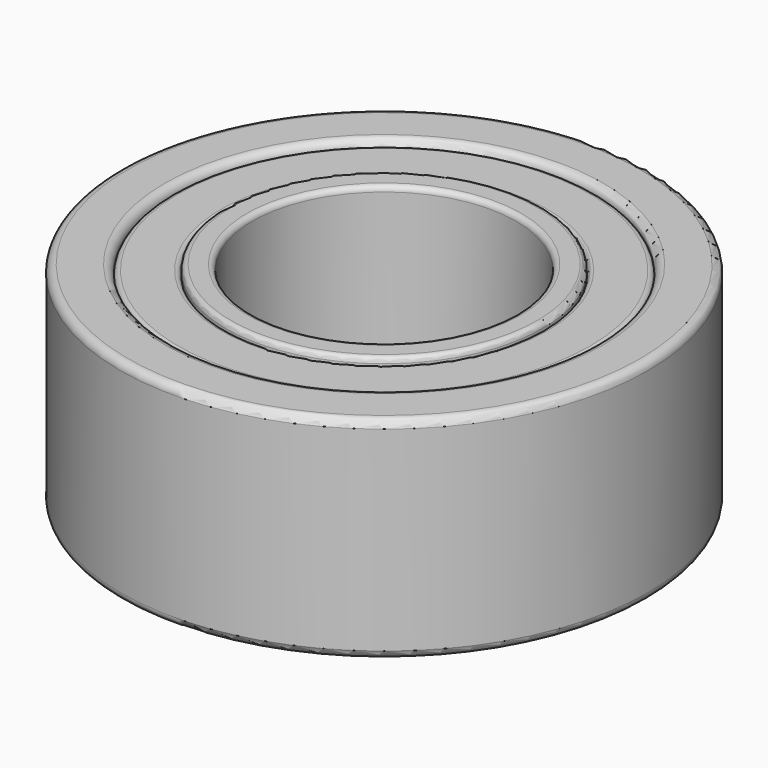
from build123d import *

# Parameters (mm, degrees)
SKETCH_R      = 10
SKETCH_R_2    = 5
PAD_DEPTH     = 4
SKETCH001_W   = 2
SKETCH001_H   = 2
FILLET_R      = 0.3
FILLET001_R   = 0.2
SKETCH002_R   = 8
SKETCH002_R_2 = 6
PAD001_DEPTH  = 0.8
FILLET002_R   = 0.2
SKETCH003_R   = 8
SKETCH003_R_2 = 6
PAD002_DEPTH  = 1
FILLET003_R   = 0.2


with BuildPart() as body:
    # Sketch → Pad (new body, symmetric)
    with BuildSketch(Plane.XY):
        Circle(SKETCH_R)
        Circle(SKETCH_R_2, mode=Mode.SUBTRACT)
    extrude(amount=PAD_DEPTH, both=True)

    # Sketch001 → Groove (revolve, cut)
    with BuildSketch(Plane.YZ):
        with Locations((7, 4)):
            Rectangle(SKETCH001_W, SKETCH001_H)
    groove = revolve(axis=Axis((0, 0, 0), (0, 0, 1)), mode=Mode.SUBTRACT)

    # Mirrored: Groove across XY
    add(groove.mirror(Plane.XY), mode=Mode.SUBTRACT)

    # Fillet
    fillet_edges = [body.edges().sort_by_distance(p)[0] for p in [
        (-10, 0, 4),
        (0, -8, 4),
        (-10, 0, -4),
        (0, -8, -4),
    ]]
    fillet(fillet_edges, radius=FILLET_R)

    # Fillet001
    fillet001_edges = [body.edges().sort_by_distance(p)[0] for p in [
        (0, -6, 4),
        (-5, 0, 4),
        (0, -6, -4),
        (-5, 0, -4),
    ]]
    fillet(fillet001_edges, radius=FILLET001_R)


with BuildPart() as body001:
    # Sketch002 → Pad001 (new body)
    with BuildSketch(Plane.XY.offset(3)):
        Circle(SKETCH002_R)
        Circle(SKETCH002_R_2, mode=Mode.SUBTRACT)
    extrude(amount=PAD001_DEPTH)

    # Fillet002
    fillet002_edges = [body001.edges().sort_by_distance(p)[0] for p in [
        (-8, 0, 3.8),
        (-6, 0, 3.8),
    ]]
    fillet(fillet002_edges, radius=FILLET002_R)


with BuildPart() as body002:
    # Sketch003 → Pad002 (new body)
    with BuildSketch(Plane(origin=(0, 0, -3), x_dir=(1, 0, 0), z_dir=(0, 0, -1))):
        Circle(SKETCH003_R)
        Circle(SKETCH003_R_2, mode=Mode.SUBTRACT)
    extrude(amount=PAD002_DEPTH)

    # Fillet003
    fillet003_edges = [body002.edges().sort_by_distance(p)[0] for p in [
        (-6, 0, -4),
        (-8, 0, -4),
    ]]
    fillet(fillet003_edges, radius=FILLET003_R)


solid = Compound([body.part, body001.part, body002.part])
